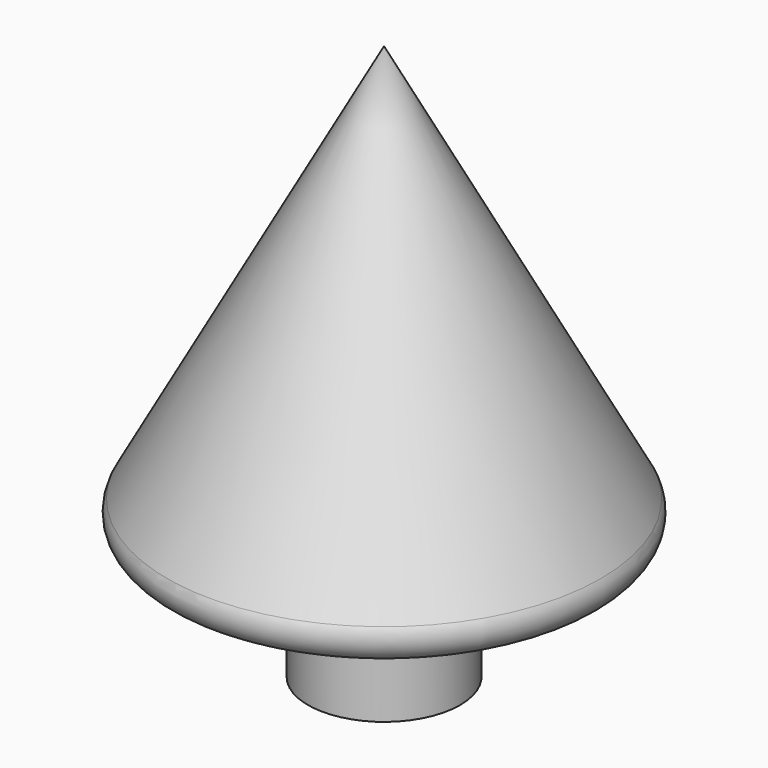
from build123d import *

# Parameters (mm, degrees)
F0_W = 7.9730240395
F0_H = 12.7
F2_R = 2.54


with BuildPart() as f1:
    # F0 (on Front) → F1 (revolve)
    with BuildSketch(Plane.XZ):
        with Locations((-6.3644330367, -27.780141139)):
            Rectangle(F0_W, F0_H)
        Polygon((-10.3509450564, 24.0589510649), (-10.3509450564, -21.430141139), (-2.3779210169, -21.430141139), (14.4058084115, -21.430141139), align=None)
    revolve(axis=Axis((-10.3509450564, 0, -11.4546911791), (0, 0, -1)))

    # F2
    f2_edges = [f1.edges().sort_by_distance(p)[0] for p in [
        (-35.107699, 0, -21.430141),
    ]]
    fillet(f2_edges, radius=F2_R)


solid = f1.part
